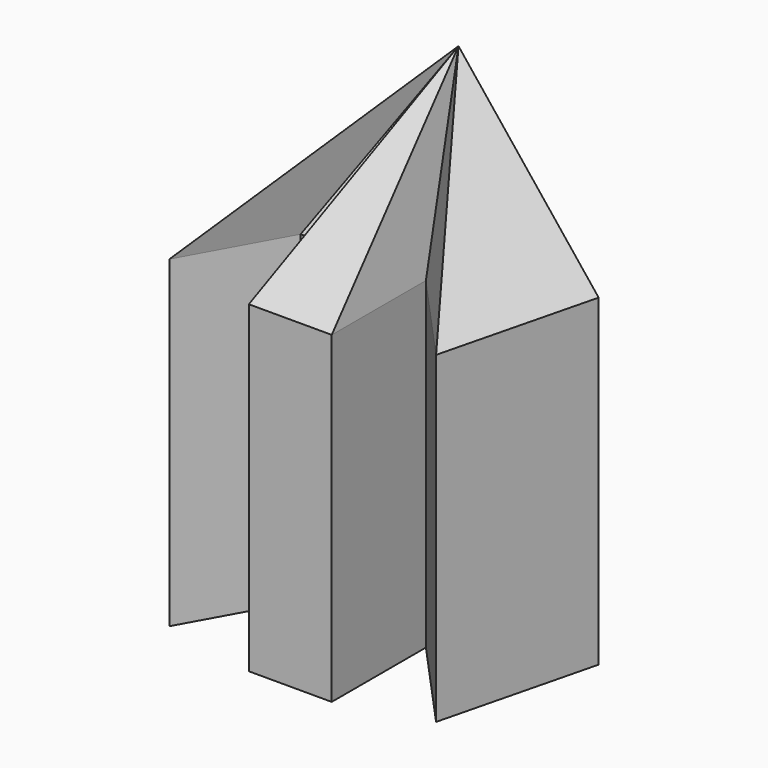
from build123d import *

# Parameters (mm, degrees)
F1_DEPTH = 50


with BuildPart() as f1:
    # F0 (on Top) → F1 (new body, symmetric)
    with BuildSketch(Plane.XY):
        Polygon((48.676394, 0), (-44.887215, 0), (-44.887215, -49.113605), (-28.273115, -19.09164), (0, -19.09164), (-15.156722, -55.526067), (10.493115, -55.526067), (10.493115, -19.09164), (36.725905, -47.947705), align=None)
    extrude(amount=F1_DEPTH, both=True)

    # F1_face (on face) → F4 section 0
    with BuildSketch(Plane(origin=(2.137736, -20.383038, 50), x_dir=(1, 0, 0), z_dir=(0, 0, 1)), mode=Mode.PRIVATE) as f4_s0:
        Polygon((8.355379, 1.291398), (34.588169, -27.564667), (46.538658, 20.383038), (-47.024951, 20.383038), (-47.024951, -28.730568), (-30.410851, 1.291398), (-2.137736, 1.291398), (-17.294458, -35.143029), (8.355379, -35.143029), align=None)
    loft([f4_s0.sketch, Vertex(0, 6.626067, 100)])


solid = f1.part
